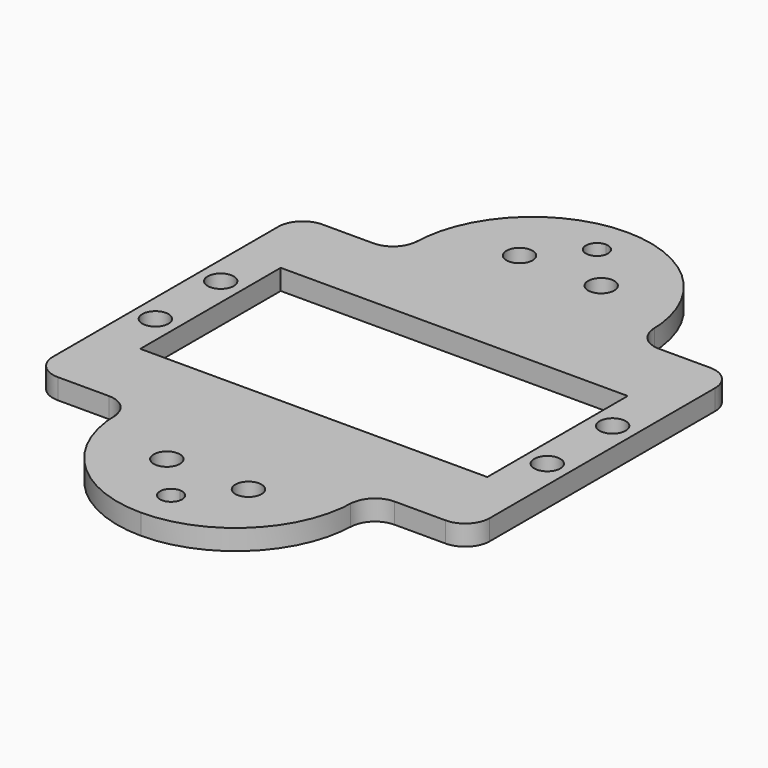
from build123d import *

# Parameters (mm, degrees)
F0_R     = 1.6
F1_DEPTH = 2.5


with BuildPart() as f1:
    # F0 (on Top) → F1 (new body)
    with BuildSketch(Plane.XY):
        with BuildLine():
            Line((0, 17.25), (0, 0))
            Line((0, 0), (5.5, 0))
            Line((5.5, 0), (5.5, 10.75))
            Line((5.5, 10.75), (26.75, 10.75))
            Line((26.75, 10.75), (26.75, 22.7))
            Line((26.75, 22.7), (12.25, 22.7))
            Line((12.25, 22.7), (12.25, 23.25))
            ThreePointArc((12.25, 23.25), (11.37132, 21.12868), (9.25, 20.25))
            Line((9.25, 20.25), (3, 20.25))
            ThreePointArc((3, 20.25), (0.87868, 19.37132), (0, 17.25))
        make_face()
        with Locations((2.75, 5)):
            Circle(F0_R, mode=Mode.SUBTRACT)
        with BuildLine():
            Line((5.5, 0), (0, 0))
            Line((0, 0), (0, -17.25))
            ThreePointArc((0, -17.25), (0.87868, -19.37132), (3, -20.25))
            Line((3, -20.25), (9.25, -20.25))
            ThreePointArc((9.25, -20.25), (11.37132, -21.12868), (12.25, -23.25))
            Line((12.25, -23.25), (12.25, -22.7))
            Line((12.25, -22.7), (26.75, -22.7))
            Line((26.75, -22.7), (26.75, -10.75))
            Line((26.75, -10.75), (5.5, -10.75))
            Line((5.5, -10.75), (5.5, 0))
        make_face()
        with Locations((2.75, -5)):
            Circle(F0_R, mode=Mode.SUBTRACT)
        with BuildLine():
            Line((48, 10.75), (48, 0))
            Line((48, 0), (53.5, 0))
            Line((53.5, 0), (53.5, 17.25))
            ThreePointArc((53.5, 17.25), (52.62132, 19.37132), (50.5, 20.25))
            Line((50.5, 20.25), (44.25, 20.25))
            ThreePointArc((44.25, 20.25), (42.12868, 21.12868), (41.25, 23.25))
            Line((41.25, 23.25), (41.25, 22.7))
            Line((41.25, 22.7), (26.75, 22.7))
            Line((26.75, 22.7), (26.75, 10.75))
            Line((26.75, 10.75), (48, 10.75))
        make_face()
        with Locations((50.75, 5)):
            Circle(F0_R, mode=Mode.SUBTRACT)
        with BuildLine():
            Line((53.5, 0), (48, 0))
            Line((48, 0), (48, -10.75))
            Line((48, -10.75), (26.75, -10.75))
            Line((26.75, -10.75), (26.75, -22.7))
            Line((26.75, -22.7), (41.25, -22.7))
            Line((41.25, -22.7), (41.25, -23.25))
            ThreePointArc((41.25, -23.25), (42.12868, -21.12868), (44.25, -20.25))
            Line((44.25, -20.25), (50.5, -20.25))
            ThreePointArc((50.5, -20.25), (52.62132, -19.37132), (53.5, -17.25))
            Line((53.5, -17.25), (53.5, 0))
        make_face()
        with Locations((50.75, -5)):
            Circle(F0_R, mode=Mode.SUBTRACT)
        with BuildLine():
            Line((41.25, -22.7), (26.75, -22.7))
            Line((26.75, -22.7), (26.75, -31.25))
            ThreePointArc((26.75, -31.25), (27.704594, -31.645406), (28.1, -32.6))
            ThreePointArc((28.1, -32.6), (27.704594, -33.554594), (26.75, -33.95))
            Line((26.75, -33.95), (26.75, -37.2))
            ThreePointArc((26.75, -37.2), (37.003048, -32.953048), (41.25, -22.7))
        make_face()
        with Locations((31.75, -27)):
            Circle(F0_R, mode=Mode.SUBTRACT)
        with BuildLine():
            Line((26.75, -31.25), (26.75, -22.7))
            Line((26.75, -22.7), (12.25, -22.7))
            ThreePointArc((12.25, -22.7), (16.496952, -32.953048), (26.75, -37.2))
            Line((26.75, -37.2), (26.75, -33.95))
            ThreePointArc((26.75, -33.95), (25.4, -32.6), (26.75, -31.25))
        make_face()
        with Locations((21.75, -27)):
            Circle(F0_R, mode=Mode.SUBTRACT)
        with BuildLine():
            Line((12.25, 22.7), (26.75, 22.7))
            Line((26.75, 22.7), (26.75, 31.25))
            ThreePointArc((26.75, 31.25), (25.4, 32.6), (26.75, 33.95))
            Line((26.75, 33.95), (26.75, 37.2))
            ThreePointArc((26.75, 37.2), (16.496952, 32.953048), (12.25, 22.7))
        make_face()
        with Locations((21.75, 27)):
            Circle(F0_R, mode=Mode.SUBTRACT)
        with BuildLine():
            Line((26.75, 31.25), (26.75, 22.7))
            Line((26.75, 22.7), (41.25, 22.7))
            ThreePointArc((41.25, 22.7), (37.003048, 32.953048), (26.75, 37.2))
            Line((26.75, 37.2), (26.75, 33.95))
            ThreePointArc((26.75, 33.95), (27.704594, 33.554594), (28.1, 32.6))
            ThreePointArc((28.1, 32.6), (27.704594, 31.645406), (26.75, 31.25))
        make_face()
        with Locations((31.75, 27)):
            Circle(F0_R, mode=Mode.SUBTRACT)
    extrude(amount=F1_DEPTH)


solid = f1.part
